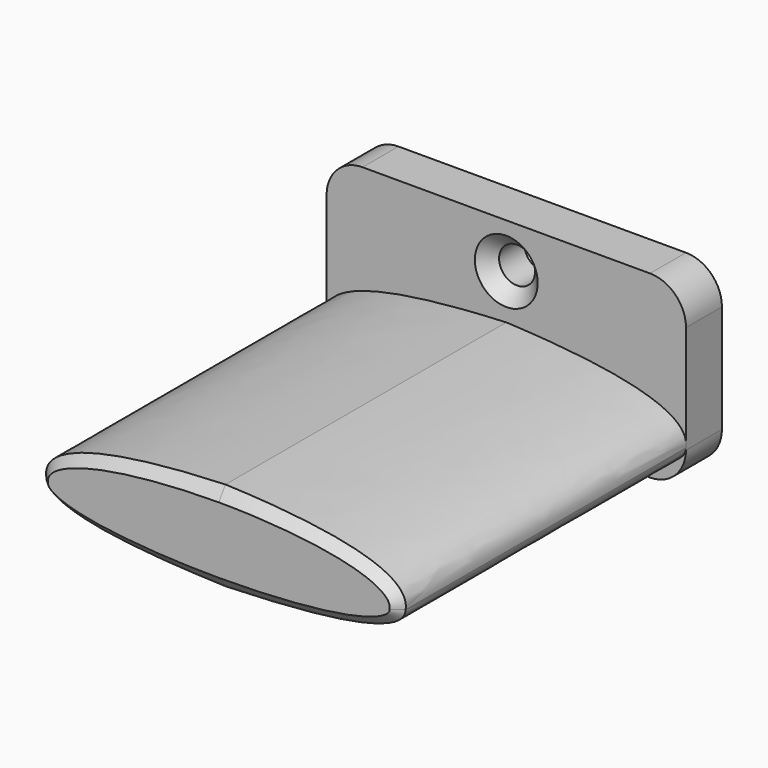
from build123d import *

# Parameters (mm, degrees)
SKETCH_W        = 40
SKETCH_H        = 20
SKETCH_R        = 2
PAD_DEPTH       = 5
PAD001_DEPTH    = 40
FILLET_R        = 4
CHAMFER_SIZE    = 1
CHAMFER001_SIZE = 1.5


with BuildPart() as part:
    # Sketch → Pad (new body)
    with BuildSketch(Plane.XZ):
        Rectangle(SKETCH_W, SKETCH_H)
        with Locations((0, 5)):
            Circle(SKETCH_R, mode=Mode.SUBTRACT)
    extrude(amount=PAD_DEPTH)

    # Sketch001 (on Face7 of Pad) → Pad001 (join)
    with BuildSketch(Plane.XZ.offset(5)):
        with BuildLine():
            add(Edge.make_bspline(
                [(-20, -5.78744), (-20.688593, -0.934238), (0, 0)],
                knots=[0, 0, 0, 1, 1, 1], degree=2))
            add(Edge.make_bspline(
                [(20, -5.78744), (20.688593, -0.934238), (0, 0)],
                knots=[0, 0, 0, 1, 1, 1], degree=2))
            add(Edge.make_bspline(
                [(20, -5.78744), (19.908007, -9.418864), (0, -10)],
                knots=[0, 0, 0, 1, 1, 1], degree=2))
            add(Edge.make_bspline(
                [(-20, -5.78744), (-19.908007, -9.418864), (0, -10)],
                knots=[0, 0, 0, 1, 1, 1], degree=2))
        make_face()
    extrude(amount=PAD001_DEPTH)

    # Fillet
    fillet_edges = [part.edges().sort_by_distance(p)[0] for p in [
        (20, -2.5, 10),
        (20, -2.5, -10),
        (-20, -2.5, 10),
        (-20, -2.5, -10),
    ]]
    fillet(fillet_edges, radius=FILLET_R)

    # Chamfer
    chamfer_edges = [part.edges().sort_by_distance(p)[0] for p in [
        (10.984514, -45, -0.988644),
        (-10.984514, -45, -0.988644),
        (-10.562912, -45, -9.332673),
        (10.562912, -45, -9.332673),
    ]]
    chamfer(chamfer_edges, length=CHAMFER_SIZE)

    # Chamfer001
    chamfer001_edges = [part.edges().sort_by_distance(p)[0] for p in [
        (-2, -5, 5),
    ]]
    chamfer(chamfer001_edges, length=CHAMFER001_SIZE)


solid = part.part
